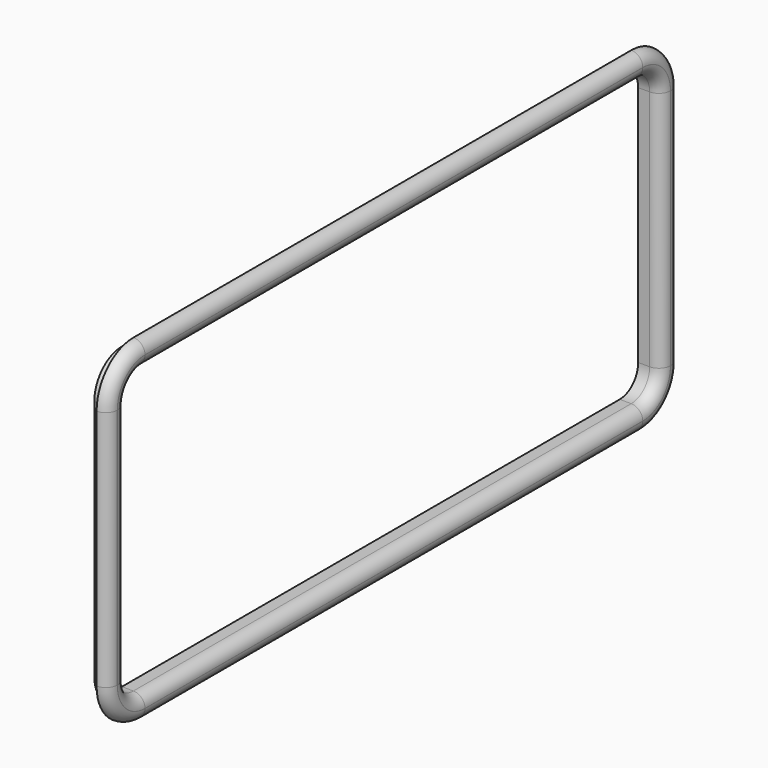
from build123d import *

# Parameters (mm, degrees)
BOX048_W     = 5
BOX048_H     = 58
BOX048_DEPTH = 25
FILLET053_R  = 2
BOX050_W     = 1
BOX050_H     = 62
BOX050_DEPTH = 29
FILLET055_R  = 4
BOX049_W     = 2
BOX049_H     = 60
BOX049_DEPTH = 27
FILLET054_R  = 3
FILLET056_R  = 1
FILLET057_R  = 0.99


with BuildPart() as fillet053:
    # Box048 → Box048 (new body)
    with BuildSketch(Plane(origin=(118, 56, 86), x_dir=(1, 0, 0), z_dir=(0, 0, 1))):
        with Locations((2.5, 29)):
            Rectangle(BOX048_W, BOX048_H)
    extrude(amount=BOX048_DEPTH)

    # Fillet053
    fillet053_edges = [fillet053.edges().sort_by_distance(p)[0] for p in [
        (120.5, 56, 86),
        (120.5, 56, 111),
        (120.5, 114, 86),
        (120.5, 114, 111),
    ]]
    fillet(fillet053_edges, radius=FILLET053_R)


with BuildPart() as fillet055:
    # Box050 → Box050 (new body)
    with BuildSketch(Plane(origin=(118, 54, 84), x_dir=(1, 0, 0), z_dir=(0, 0, 1))):
        with Locations((0.5, 31)):
            Rectangle(BOX050_W, BOX050_H)
    extrude(amount=BOX050_DEPTH)

    # Fillet055
    fillet055_edges = [fillet055.edges().sort_by_distance(p)[0] for p in [
        (118.5, 54, 84),
        (118.5, 54, 113),
        (118.5, 116, 84),
        (118.5, 116, 113),
    ]]
    fillet(fillet055_edges, radius=FILLET055_R)


with BuildPart() as fillet055_1:
    # Fillet055 placement: moved
    add(fillet055.part.moved(Location((4, 0, 0))))


with BuildPart() as fillet057:
    # Box049 → Box049 (new body)
    with BuildSketch(Plane(origin=(118, 55, 85), x_dir=(1, 0, 0), z_dir=(0, 0, 1))):
        with Locations((1, 30)):
            Rectangle(BOX049_W, BOX049_H)
    extrude(amount=BOX049_DEPTH)

    # Fillet054
    fillet054_edges = [fillet057.edges().sort_by_distance(p)[0] for p in [
        (119, 55, 85),
        (119, 55, 112),
        (119, 115, 85),
        (119, 115, 112),
    ]]
    fillet(fillet054_edges, radius=FILLET054_R)


with BuildPart() as fillet057_1:
    # Fillet054 placement: moved
    add(fillet057.part.moved(Location((3, 0, 0))))

    # Fusion006: union Fillet055
    add(fillet055_1.part)

    # Cut036: cut Fillet053
    add(fillet053.part, mode=Mode.SUBTRACT)

    # Fillet056
    fillet056_edges = [fillet057_1.edges().sort_by_distance(p)[0] for p in [
        (123, 85, 111),
        (123, 85, 86),
    ]]
    fillet(fillet056_edges, radius=FILLET056_R)

    # Fillet057
    fillet057_edges = [fillet057_1.edges().sort_by_distance(p)[0] for p in [
        (123, 85, 84),
        (123, 85, 113),
    ]]
    fillet(fillet057_edges, radius=FILLET057_R)


solid = fillet057_1.part
